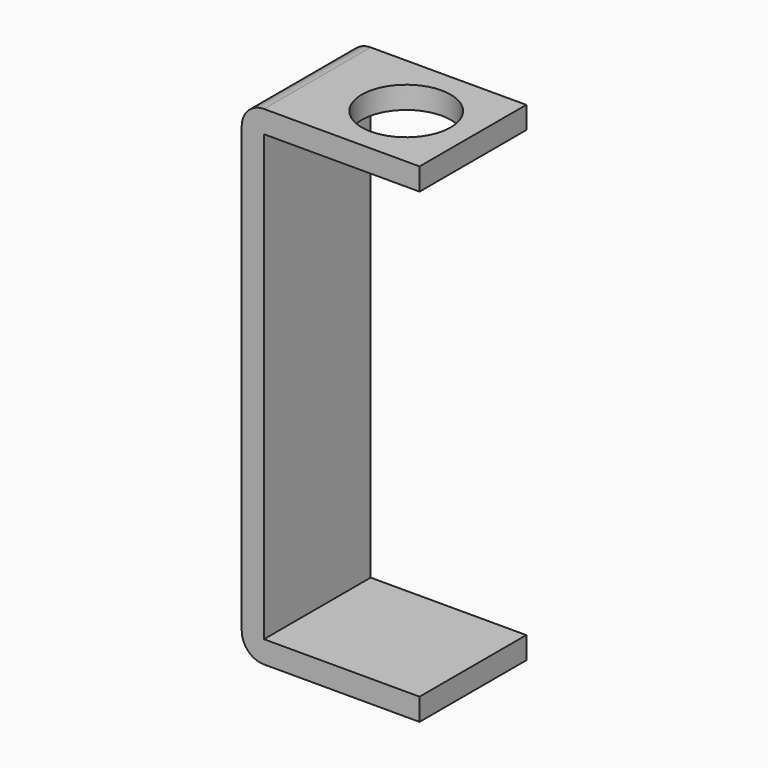
from build123d import *

# Parameters (mm, degrees)
F0_W     = 5
F0_H     = 30
F0_W_2   = 35
F1_DEPTH = 5
F2_DEPTH = 100
F3_W     = 40
F3_H     = 30
F3_R     = 10
F4_DEPTH = 5
F5_R     = 5


with BuildPart() as f1:
    # F0 (on Top) → F1 (new body)
    with BuildSketch(Plane.XY):
        with Locations((-17.5, 0)):
            Rectangle(F0_W, F0_H)
        with Locations((2.5, 0)):
            Rectangle(F0_W_2, F0_H)
    extrude(amount=-F1_DEPTH)

    # F0 (on Top) → F2 (join)
    with BuildSketch(Plane.XY):
        with Locations((-17.5, 0)):
            Rectangle(F0_W, F0_H)
    extrude(amount=F2_DEPTH)

    # F3 (on face) → F4 (join)
    with BuildSketch(Plane.XY.offset(100)):
        Rectangle(F3_W, F3_H)
        with Locations((5, 0)):
            Circle(F3_R, mode=Mode.SUBTRACT)
    extrude(amount=F4_DEPTH)

    # F5
    f5_edges = [f1.edges().sort_by_distance(p)[0] for p in [
        (-20, 0, -5),
        (-20, 0, 105),
    ]]
    fillet(f5_edges, radius=F5_R)


solid = f1.part
